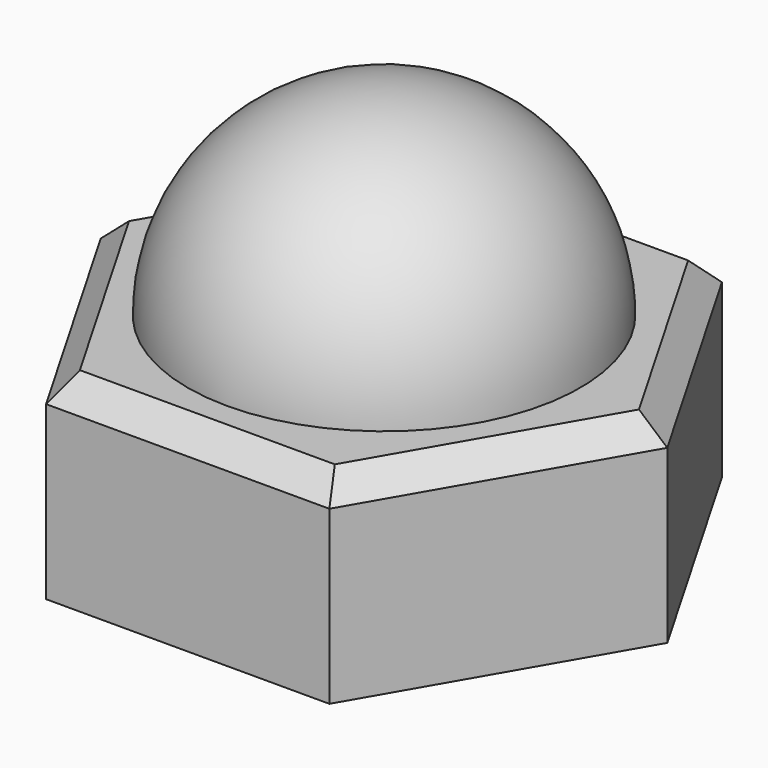
from build123d import *

# Parameters (mm, degrees)
F1_DEPTH = 4
F2_SIZE  = 0.5


with BuildPart() as f1:
    # F0 (on Top) → F1 (new body)
    with BuildSketch(Plane.XY):
        Polygon((2.886751, 5), (-2.886751, 5), (-5.773503, 0), (-2.886751, -5), (2.886751, -5), (5.773503, 0), align=None)
    extrude(amount=F1_DEPTH)

    # F2
    f2_edges = [f1.edges().sort_by_distance(p)[0] for p in [
        (4.330127, -2.5, 4),
        (0, -5, 4),
        (-4.330127, -2.5, 4),
        (-4.330127, 2.5, 4),
        (0, 5, 4),
        (4.330127, 2.5, 4),
    ]]
    chamfer(f2_edges, length=F2_SIZE)

    # F3 (on face) → F4 (revolve)
    with BuildSketch(Plane.XY.offset(4)):
        with BuildLine():
            Line((0, 4), (0, -4))
            ThreePointArc((0, -4), (4, 0), (0, 4))
        make_face()
    revolve(axis=Axis((0, 0, 4), (0, -1, 0)))


solid = f1.part
